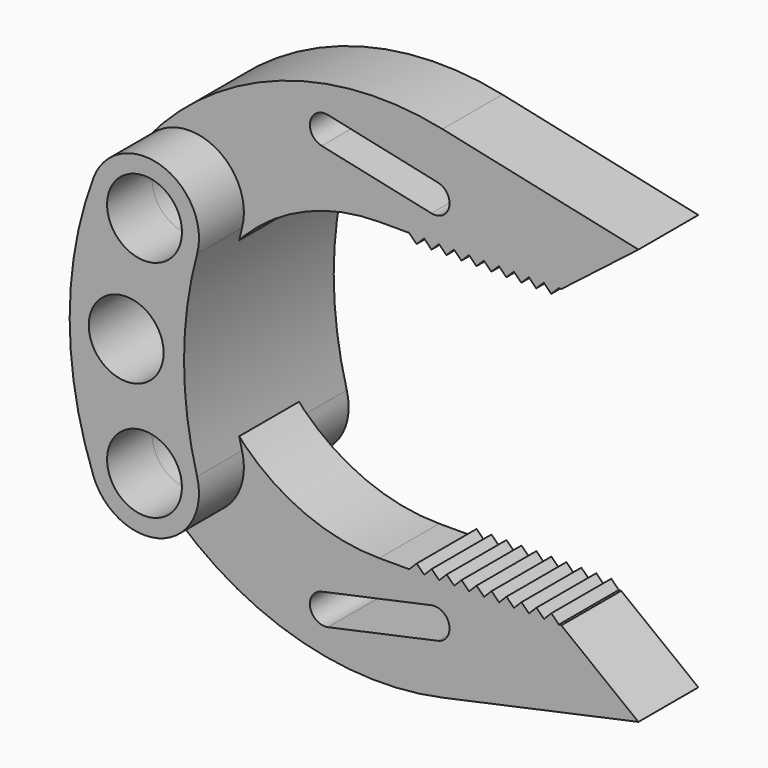
from build123d import *

# Parameters (mm, degrees)
F0_R     = 5
F2_DEPTH = 12.5
F1_R     = 5
F3_DEPTH = 5
F4_R     = 5
F5_DEPTH = 25.001


with BuildPart() as f2:
    # F0 (on Front) → F2 (new body, symmetric)
    with BuildSketch(Plane.XZ):
        with BuildLine():
            ThreePointArc((7.0259297591, 13.0935796997), (2.2337529405, 21.928814844), (-6.8164588785, 17.5561720794))
            ThreePointArc((-6.8164588785, 17.5561720794), (-10, 0), (-6.8164588785, -17.5561720794))
            ThreePointArc((-6.8164588785, -17.5561720794), (2.2337529405, -21.928814844), (7.0259297591, -13.0935796997))
            ThreePointArc((7.0259297591, -13.0935796997), (5.2810659691, 0), (7.0259297591, 13.0935796997))
        make_face()
        with Locations((0, -15)):
            Circle(F0_R, mode=Mode.SUBTRACT)
        with Locations((0, 15)):
            Circle(F0_R, mode=Mode.SUBTRACT)
    extrude(amount=F2_DEPTH, both=True)

    # F4 (on face) → F5 (cut, through all)
    with BuildSketch(Plane.XZ.offset(12.5)):
        with Locations((0, -15)):
            Circle(F4_R)
        with Locations((0, 15)):
            Circle(F4_R)
        with Locations((-2.44897563, 0)):
            Circle(F4_R)
    extrude(amount=-F5_DEPTH, mode=Mode.SUBTRACT)


with BuildPart() as f3:
    # F1 (on Front) → F3 (new body, symmetric)
    with BuildSketch(Plane.XZ):
        with BuildLine():
            ThreePointArc((5.6452437418, 10.4033326816), (6.8591324548, 12.5606498184), (7.2799812734, 15))
            ThreePointArc((7.2799812734, 15), (2.4393501816, 21.8591324548), (-5.6452437418, 19.5966673184))
            ThreePointArc((-5.6452437418, 19.5966673184), (-4.5966673184, 9.3547562582), (5.6452437418, 10.4033326816))
        make_face()
        with Locations((0, 15)):
            Circle(F1_R, mode=Mode.SUBTRACT)
        with BuildLine():
            ThreePointArc((-5.6452437418, 19.5966673184), (2.4393501816, 21.8591324548), (7.2799812734, 15))
            ThreePointArc((7.2799812734, 15), (6.8591324548, 12.5606498184), (5.6452437418, 10.4033326816))
            ThreePointArc((5.6452437418, 10.4033326816), (14.451383321, 17.3167254025), (25.372658804, 19.780225966))
            Line((25.372658804, 19.780225966), (29.3511980622, 19.780225966))
            Line((29.3511980622, 19.780225966), (31.3511980622, 19.780225966))
            Line((31.3511980622, 19.780225966), (33.3511980622, 19.780225966))
            Line((33.3511980622, 19.780225966), (35.3511980622, 19.780225966))
            Line((35.3511980622, 19.780225966), (37.3511980622, 19.780225966))
            Line((37.3511980622, 19.780225966), (39.3511980622, 19.780225966))
            Line((39.3511980622, 19.780225966), (41.3511980622, 19.780225966))
            Line((41.3511980622, 19.780225966), (43.3511980622, 19.780225966))
            Line((43.3511980622, 19.780225966), (45.3511980622, 19.780225966))
            Line((45.3511980622, 19.780225966), (47.3511980622, 19.780225966))
            Line((47.3511980622, 19.780225966), (49.3511980622, 19.780225966))
            Line((49.3511980622, 19.780225966), (49.6884021907, 19.780225966))
            Line((49.6884021907, 19.780225966), (60, 27.780225966))
            Line((60, 27.780225966), (33.8220885653, 33.437594267))
            ThreePointArc((33.8220885653, 33.437594267), (12.1353325764, 32.0863564553), (-5.6452437418, 19.5966673184))
        make_face()
        with BuildLine():
            ThreePointArc((17.6735257598, 26.2181881521), (16.1411269602, 28.5955299278), (18.518468736, 30.1279287275))
            Line((18.518468736, 30.1279287275), (33.1799958938, 26.959392567))
            ThreePointArc((33.1799958938, 26.959392567), (34.7123946934, 24.5820507912), (32.3350529176, 23.0496519916))
            Line((32.3350529176, 23.0496519916), (17.6735257598, 26.2181881521))
        make_face(mode=Mode.SUBTRACT)
        Polygon((31.3511980622, 19.780225966), (29.3511980622, 19.780225966), (30.3454212844, 18.7802426517), align=None)
        Polygon((33.3511980622, 19.780225966), (31.3511980622, 19.780225966), (32.3454212844, 18.7802426517), align=None)
        Polygon((48.3454212844, 18.7802426517), (49.3511980622, 19.780225966), (47.3511980622, 19.780225966), align=None)
        Polygon((35.3511980622, 19.780225966), (33.3511980622, 19.780225966), (34.3454212844, 18.7802426517), align=None)
        Polygon((46.3454212844, 18.7802426517), (47.3511980622, 19.780225966), (45.3511980622, 19.780225966), align=None)
        Polygon((37.3511980622, 19.780225966), (35.3511980622, 19.780225966), (36.3454212844, 18.7802426517), align=None)
        Polygon((44.3454212844, 18.7802426517), (45.3511980622, 19.780225966), (43.3511980622, 19.780225966), align=None)
        Polygon((39.3511980622, 19.780225966), (37.3511980622, 19.780225966), (38.3454212844, 18.7802426517), align=None)
        Polygon((42.3454212844, 18.7802426517), (43.3511980622, 19.780225966), (41.3511980622, 19.780225966), align=None)
        Polygon((41.3511980622, 19.780225966), (39.3511980622, 19.780225966), (40.3454212844, 18.7802426517), align=None)
    extrude(amount=F3_DEPTH, both=True)


with BuildPart() as f3b:
    # F1 (on Front) → F3, piece 2 (new body, symmetric)
    with BuildSketch(Plane.XZ):
        with BuildLine():
            ThreePointArc((-5.6452437418, -19.5966673184), (12.1353325764, -32.0863564553), (33.8220885653, -33.437594267))
            Line((33.8220885653, -33.437594267), (60, -27.780225966))
            Line((60, -27.780225966), (49.6884021907, -19.780225966))
            Line((49.6884021907, -19.780225966), (49.3726588903, -19.780225966))
            Line((49.3726588903, -19.780225966), (47.3726588903, -19.780225966))
            Line((47.3726588903, -19.780225966), (45.3726588903, -19.780225966))
            Line((45.3726588903, -19.780225966), (43.3726588903, -19.780225966))
            Line((43.3726588903, -19.780225966), (41.3726588903, -19.780225966))
            Line((41.3726588903, -19.780225966), (39.3726588903, -19.780225966))
            Line((39.3726588903, -19.780225966), (37.3726588903, -19.780225966))
            Line((37.3726588903, -19.780225966), (35.3726588903, -19.780225966))
            Line((35.3726588903, -19.780225966), (33.3726588903, -19.780225966))
            Line((33.3726588903, -19.780225966), (31.3726588903, -19.780225966))
            Line((31.3726588903, -19.780225966), (29.3726588903, -19.780225966))
            Line((29.3726588903, -19.780225966), (25.372658804, -19.780225966))
            ThreePointArc((25.372658804, -19.780225966), (14.451383321, -17.3167254025), (5.6452437418, -10.4033326816))
            ThreePointArc((5.6452437418, -10.4033326816), (6.8591324548, -12.5606498184), (7.2799812734, -15))
            ThreePointArc((7.2799812734, -15), (2.4393501816, -21.8591324548), (-5.6452437418, -19.5966673184))
        make_face()
        with BuildLine():
            Line((17.6735257598, -26.2181881521), (32.3350529176, -23.0496519916))
            ThreePointArc((32.3350529176, -23.0496519916), (34.7123946934, -24.5820507912), (33.1799958938, -26.959392567))
            Line((33.1799958938, -26.959392567), (18.518468736, -30.1279287275))
            ThreePointArc((18.518468736, -30.1279287275), (16.1411269602, -28.5955299278), (17.6735257598, -26.2181881521))
        make_face(mode=Mode.SUBTRACT)
        with BuildLine():
            ThreePointArc((5.6452437418, -10.4033326816), (-4.5966673184, -9.3547562582), (-5.6452437418, -19.5966673184))
            ThreePointArc((-5.6452437418, -19.5966673184), (2.4393501816, -21.8591324548), (7.2799812734, -15))
            ThreePointArc((7.2799812734, -15), (6.8591324548, -12.5606498184), (5.6452437418, -10.4033326816))
        make_face()
        with Locations((0, -15)):
            Circle(F1_R, mode=Mode.SUBTRACT)
        Polygon((47.3726588903, -19.780225966), (49.3726588903, -19.780225966), (48.3668821125, -18.7802427375), align=None)
        Polygon((30.3668821125, -18.7802427375), (29.3726588903, -19.7802260518), (31.3726588903, -19.780225966), align=None)
        Polygon((45.3726588903, -19.780225966), (47.3726588903, -19.780225966), (46.3668821125, -18.7802427375), align=None)
        Polygon((32.3668821125, -18.7802427375), (31.3726588903, -19.7802260518), (33.3726588903, -19.780225966), align=None)
        Polygon((43.3726588903, -19.780225966), (45.3726588903, -19.780225966), (44.3668821125, -18.7802427375), align=None)
        Polygon((34.3668821125, -18.7802427375), (33.3726588903, -19.7802260518), (35.3726588903, -19.780225966), align=None)
        Polygon((41.3726588903, -19.780225966), (43.3726588903, -19.780225966), (42.3668821125, -18.7802427375), align=None)
        Polygon((36.3668821125, -18.7802427375), (35.3726588903, -19.7802260518), (37.3726588903, -19.780225966), align=None)
        Polygon((39.3726588903, -19.780225966), (41.3726588903, -19.780225966), (40.3668821125, -18.7802427375), align=None)
        Polygon((38.3668821125, -18.7802427375), (37.3726588903, -19.7802260518), (39.3726588903, -19.780225966), align=None)
    extrude(amount=F3_DEPTH, both=True)


solid = Compound([f2.part, f3.part, f3b.part])
